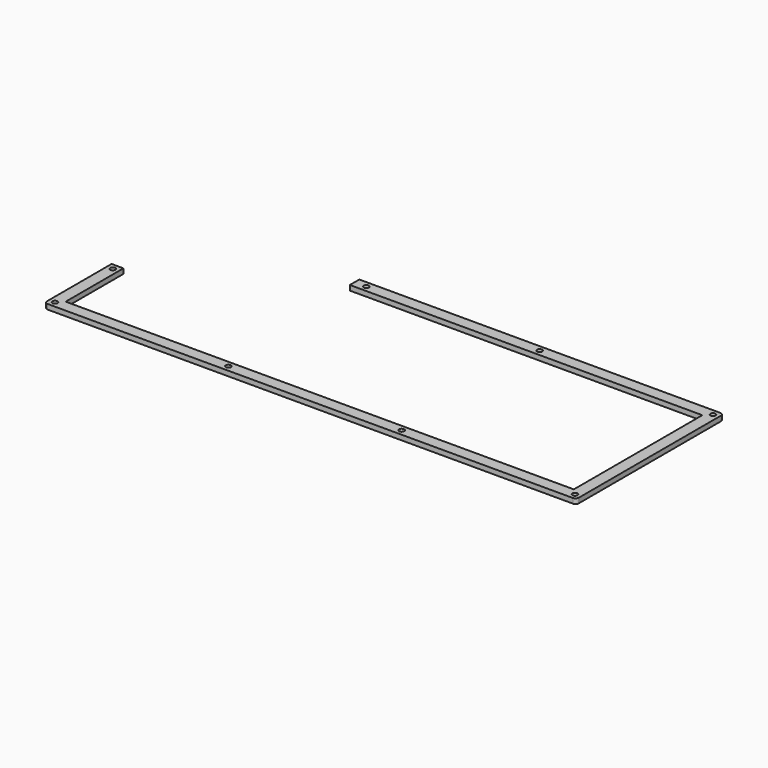
from build123d import *

# Parameters (mm, degrees)
SKETCH_R  = 1.55
PAD_DEPTH = 3


with BuildPart() as part:
    # Sketch → Pad (new body)
    with BuildSketch(Plane.XY):
        with BuildLine():
            Line((83.5225, 17.4775), (301.2275, 17.4775))
            ThreePointArc((303.2275, 15.4775), (302.641714, 16.891714), (301.2275, 17.4775))
            Line((303.2275, 15.4775), (303.2275, -91.6775))
            ThreePointArc((301.2275, -93.6775), (302.641714, -93.091714), (303.2275, -91.6775))
            Line((301.2275, -93.6775), (-15.4775, -93.6775))
            ThreePointArc((-17.4775, -91.6775), (-16.891714, -93.091714), (-15.4775, -93.6775))
            Line((-17.4775, -91.6775), (-17.4775, -43.006))
            Line((-17.4775, -43.006), (-10.3335, -43.006))
            Line((-10.3335, -43.006), (-10.3335, -86.5335))
            Line((-10.3335, -86.5335), (296.0835, -86.5335))
            Line((296.0835, 10.3335), (296.0835, -86.5335))
            Line((83.5225, 10.3335), (296.0835, 10.3335))
            Line((83.5225, 17.4775), (83.5225, 10.3335))
        make_face()
        with Locations((-13.9055, -90.1055)):
            Circle(SKETCH_R, mode=Mode.SUBTRACT)
        with Locations((195.135167, -90.1055)):
            Circle(SKETCH_R, mode=Mode.SUBTRACT)
        with Locations((299.6555, -90.1055)):
            Circle(SKETCH_R, mode=Mode.SUBTRACT)
        with Locations((90.614833, -90.1055)):
            Circle(SKETCH_R, mode=Mode.SUBTRACT)
        with Locations((90.614833, 13.9055)):
            Circle(SKETCH_R, mode=Mode.SUBTRACT)
        with Locations((195.135167, 13.9055)):
            Circle(SKETCH_R, mode=Mode.SUBTRACT)
        with Locations((299.6555, 13.9055)):
            Circle(SKETCH_R, mode=Mode.SUBTRACT)
        with Locations((-13.9055, -46.578)):
            Circle(SKETCH_R, mode=Mode.SUBTRACT)
    extrude(amount=PAD_DEPTH)


solid = part.part
